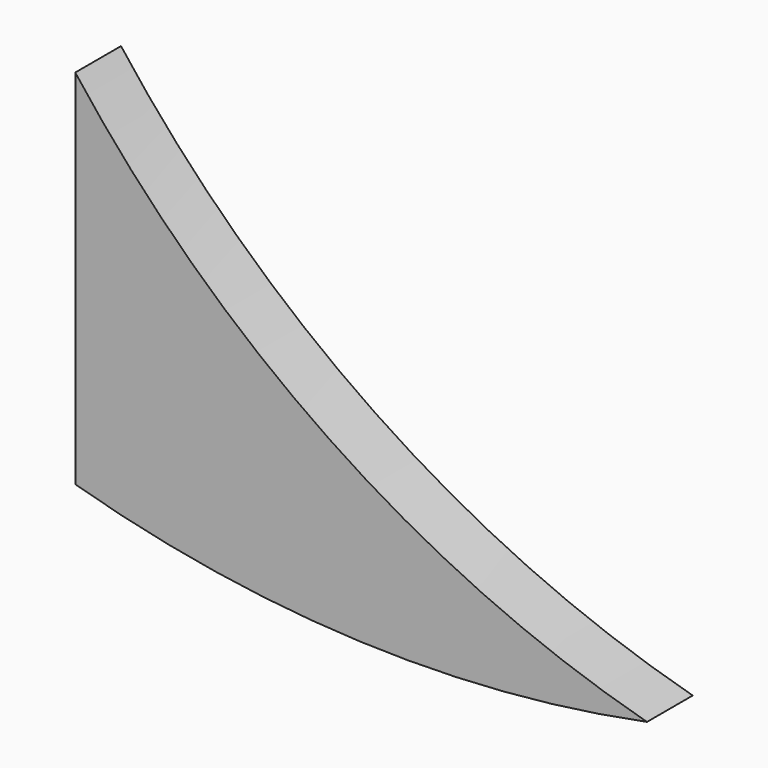
from build123d import *

# Parameters (mm, degrees)
F1_DEPTH = 20


with BuildPart() as f1:
    # F0 (on Front) → F1 (new body)
    with BuildSketch(Plane.XZ):
        with BuildLine():
            Line((300, -365.04232), (300, -491.872785))
            ThreePointArc((300, -491.872785), (399.51471, -507.878734), (500, -500))
            ThreePointArc((500, -500), (388.849667, -449.045352), (300, -365.04232))
        make_face()
    extrude(amount=F1_DEPTH)


solid = f1.part
